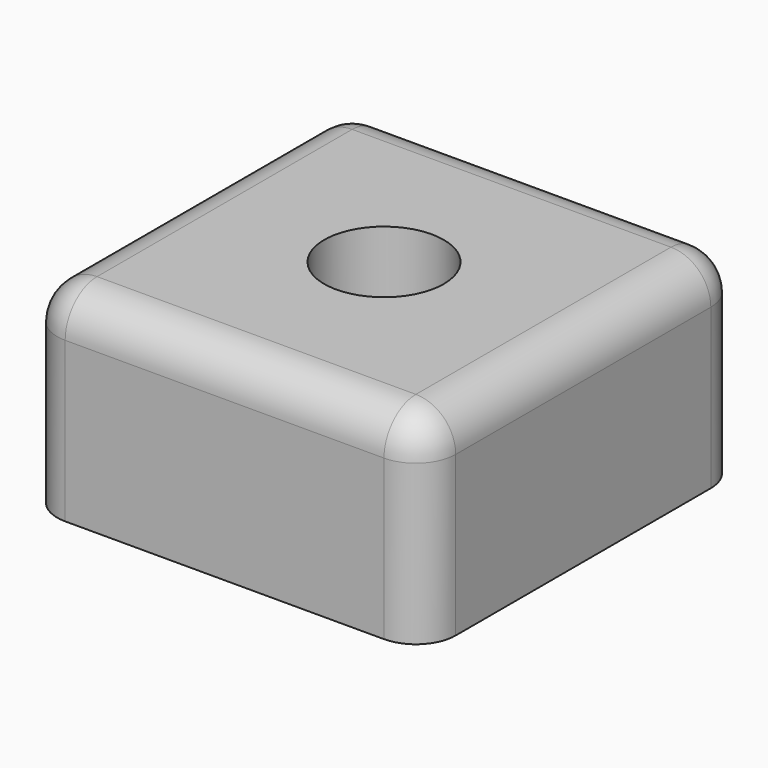
from build123d import *

# Parameters (mm, degrees)
F0_W     = 100
F0_H     = 50
F1_DEPTH = 100
F2_R     = 15
F3_DEPTH = 50
F4_R     = 10
F5_T     = -3


with BuildPart() as f1:
    # F0 (on Front) → F1 (new body)
    with BuildSketch(Plane.XZ):
        with Locations((50, 25)):
            Rectangle(F0_W, F0_H)
    extrude(amount=F1_DEPTH)

    # F2 (on face) → F3 (cut, through all)
    with BuildSketch(Plane.XY.offset(50)):
        with Locations((50, -50)):
            Circle(F2_R)
    extrude(amount=-F3_DEPTH, mode=Mode.SUBTRACT)

    # F4
    f4_edges = [f1.edges().sort_by_distance(p)[0] for p in [
        (100, 0, 25),
        (0, 0, 25),
        (100, -100, 25),
        (0, -100, 25),
        (50, -100, 50),
        (0, -50, 50),
        (100, -50, 50),
        (50, 0, 50),
    ]]
    fillet(f4_edges, radius=F4_R)

    # F5
    f5_openings = [f1.faces().sort_by_distance(p)[0] for p in [
        (1.414214, -50, 0),
    ]]
    offset(amount=F5_T, openings=f5_openings)


solid = f1.part
